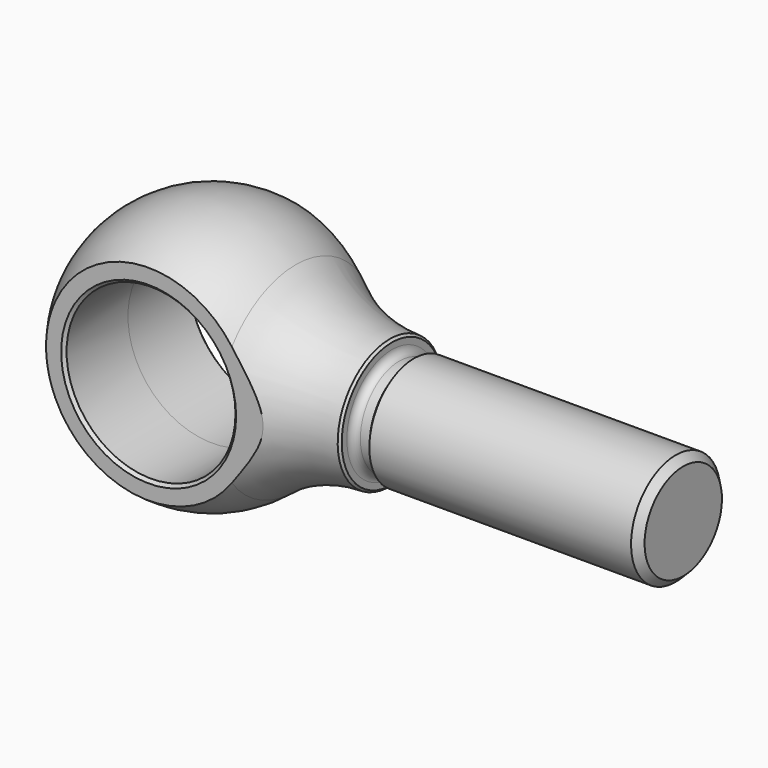
from build123d import *

# Parameters (mm, degrees)
F2_W          = 230.1748
F2_H          = 279.4
F2_W_2        = 26.9748
F2_H_2        = 76.2
F3_DEPTH      = 21.972
F3_DEPTH_BACK = 79.63
F4_R          = 14.2875
F5_DEPTH      = 13.4884001
F5_DEPTH_BACK = 13.4884001
F6_SIZE       = 0.508
F7_SCALE      = 0.832549


with BuildPart() as f1:
    # F0 (on Front) → F1 (revolve)
    with BuildSketch(Plane.XZ):
        with BuildLine():
            ThreePointArc((29.972, 10.9855), (21.5151525193, 12.5638689957), (14.0702344541, 16.8746360971))
            ThreePointArc((14.0702344541, 16.8746360971), (-9.3163222306, 19.8980145013), (-21.971, 0))
            Line((-21.971, 0), (79.629, 0))
            Line((79.629, 0), (79.629, 8.17626))
            Line((79.629, 8.17626), (78.359, 9.44626))
            Line((78.359, 9.44626), (34.0925209982, 9.44626))
            Line((34.0925209982, 9.44626), (33.2232, 8.255))
            Line((33.2232, 8.255), (31.623, 8.255))
            ThreePointArc((31.623, 8.255), (30.7249743879, 8.6269743879), (30.353, 9.525))
            Line((30.353, 9.525), (30.353, 10.6045))
            Line((30.353, 10.6045), (29.972, 10.9855))
        make_face()
    revolve(axis=Axis((28.829, 0, 0), (1, 0, 0)))

    # F2 (on Right) → F3 (cut, two sides)
    with BuildSketch(Plane.YZ) as f3_sk:
        Rectangle(F2_W, F2_H)
        Rectangle(F2_W_2, F2_H_2, mode=Mode.SUBTRACT)
    extrude(amount=-F3_DEPTH, mode=Mode.SUBTRACT)
    extrude(f3_sk.sketch, amount=F3_DEPTH_BACK, mode=Mode.SUBTRACT)

    # F4 (on Front) → F5 (cut, two sides)
    with BuildSketch(Plane.XZ) as f5_sk:
        Circle(F4_R)
    extrude(amount=-F5_DEPTH, mode=Mode.SUBTRACT)
    extrude(f5_sk.sketch, amount=F5_DEPTH_BACK, mode=Mode.SUBTRACT)

    # F6
    f6_edges = [f1.edges().sort_by_distance(p)[0] for p in [
        (-14.2875, 13.4874, 0),
        (-14.2875, -13.4874, 0),
    ]]
    chamfer(f6_edges, length=F6_SIZE)


with BuildPart() as f1_1:
    # F7: moved
    add(f1.part.scale(F7_SCALE))


solid = f1_1.part
